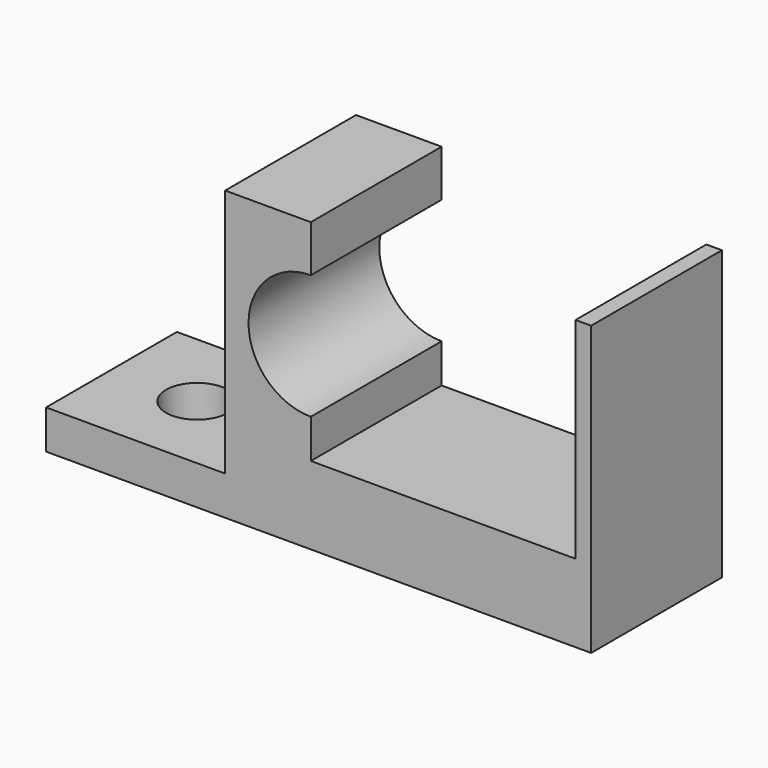
from build123d import *

# Parameters (mm, degrees)
F0_W     = 70
F0_H     = 21
F1_DEPTH = 37
F2_W     = 34
F2_H     = 21
F3_DEPTH = 27
F5_DEPTH = 21
F6_W     = 23
F6_H     = 21
F7_DEPTH = 32
F9_D     = 8


with BuildPart() as f1:
    # F0 (on Top) → F1 (new body)
    with BuildSketch(Plane.XY):
        with Locations((-50.1195863448, 2.1268057005)):
            Rectangle(F0_W, F0_H)
    extrude(amount=F1_DEPTH)

    # F2 (on face) → F3 (cut)
    with BuildSketch(Plane.XY.offset(37)):
        with Locations((-34.1195863448, 2.1268057005)):
            Rectangle(F2_W, F2_H)
    extrude(amount=-F3_DEPTH, mode=Mode.SUBTRACT)

    # F4 (on face) → F5 (cut)
    with BuildSketch(Plane.XZ.offset(8.3731942995)):
        with BuildLine():
            Line((-51.1195863448, 15), (-51.1195863448, 31))
            ThreePointArc((-51.1195863448, 31), (-59.1195863448, 23), (-51.1195863448, 15))
        make_face()
    extrude(amount=-F5_DEPTH, mode=Mode.SUBTRACT)

    # F6 (on face) → F7 (cut)
    with BuildSketch(Plane.XY.offset(37)):
        with Locations((-73.6195863448, 2.1268057005)):
            Rectangle(F6_W, F6_H)
    extrude(amount=-F7_DEPTH, mode=Mode.SUBTRACT)

    # F9 (through all)
    with Locations(Plane.XY.offset(5)):
        with Locations((-74.1195863448, 2.1268057005)):
            Hole(F9_D / 2)


solid = f1.part
